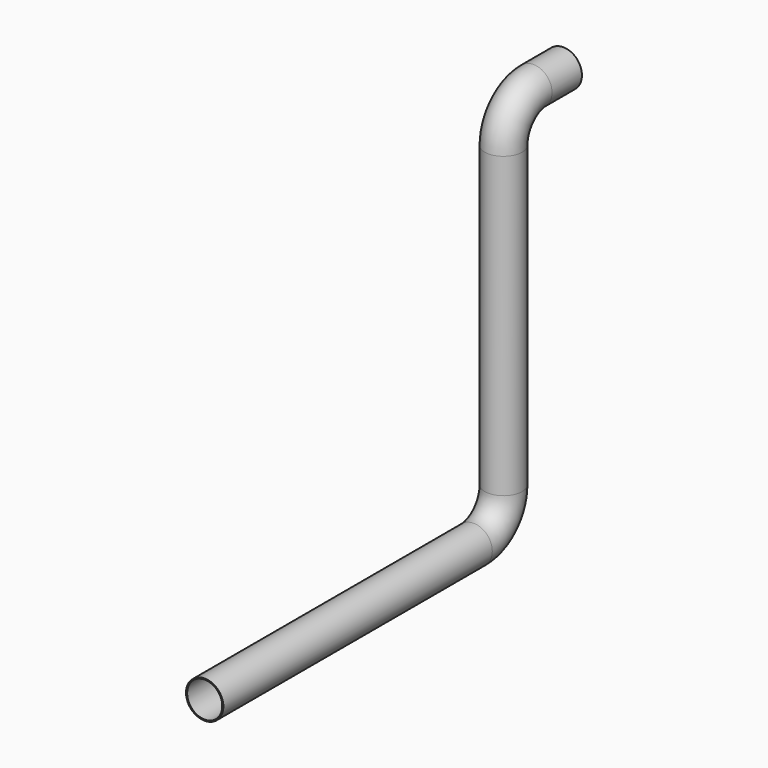
from build123d import *

# Parameters (mm, degrees)
F0_R   = 25
F0_R_2 = 23.5


with BuildPart() as f2:
    # F2: sweep along a path in F1
    with BuildLine(Plane.YZ) as f2_path:
        Line((0, 0), (-50, 0))
        ThreePointArc((-50, 0), (-85.355339, -14.644661), (-100, -50))
        Line((-100, -50), (-100, -450))
        ThreePointArc((-100, -450), (-114.644661, -485.355339), (-150, -500))
        Line((-150, -500), (-600, -500))
    # F0 (on Front) → F2 (sweep)
    with BuildSketch(Plane.XZ):
        Circle(F0_R)
        Circle(F0_R_2, mode=Mode.SUBTRACT)
    sweep(path=f2_path.line)


solid = f2.part
